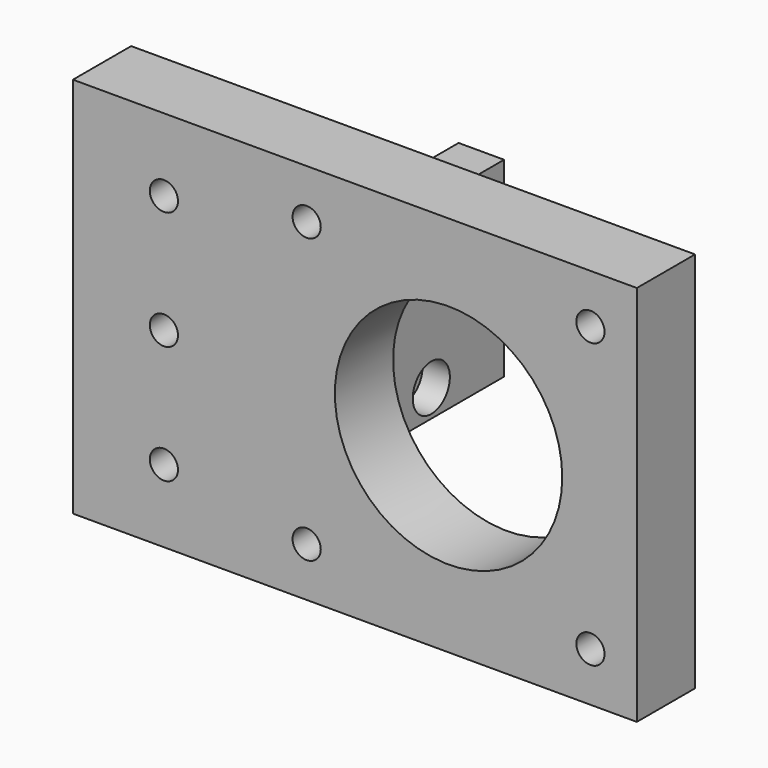
from build123d import *

# Parameters (mm, degrees)
F0_W     = 62
F0_H     = 42
F0_R     = 1.55
F0_R_2   = 12.5
F1_DEPTH = 8
F2_W     = 5
F2_H     = 21
F3_DEPTH = 20
F4_R     = 1.55
F5_DEPTH = 25
F6_R     = 2.55
F7_DEPTH = 3


with BuildPart() as f1:
    # F0 (on Front) → F1 (new body)
    with BuildSketch(Plane.XZ):
        with Locations((31, 21)):
            Rectangle(F0_W, F0_H)
        with Locations((10, 8)):
            Circle(F0_R, mode=Mode.SUBTRACT)
        with Locations((25.697473, 5.4)):
            Circle(F0_R, mode=Mode.SUBTRACT)
        with Locations((56.897473, 5.4)):
            Circle(F0_R, mode=Mode.SUBTRACT)
        with Locations((10, 21)):
            Circle(F0_R, mode=Mode.SUBTRACT)
        with Locations((10, 34)):
            Circle(F0_R, mode=Mode.SUBTRACT)
        with Locations((25.697473, 36.6)):
            Circle(F0_R, mode=Mode.SUBTRACT)
        with Locations((41.297473, 21)):
            Circle(F0_R_2, mode=Mode.SUBTRACT)
        with Locations((56.897473, 36.6)):
            Circle(F0_R, mode=Mode.SUBTRACT)
    extrude(amount=F1_DEPTH)

    # F2 (on face) → F3 (join)
    with BuildSketch(Plane(origin=(0, 0, 0), x_dir=(-1, 0, 0), z_dir=(0, 1, 0))):
        with Locations((-22.5, 20.5)):
            Rectangle(F2_W, F2_H)
    extrude(amount=F3_DEPTH)

    # F4 (on face) → F5 (cut)
    with BuildSketch(Plane.YZ.offset(25)):
        with Locations((10, 28)):
            Circle(F4_R)
        with Locations((10, 13)):
            Circle(F4_R)
    extrude(amount=-F5_DEPTH, mode=Mode.SUBTRACT)

    # F6 (on face) → F7 (cut)
    with BuildSketch(Plane.YZ.offset(25)):
        with Locations((10, 28)):
            Circle(F6_R)
        with Locations((10, 13)):
            Circle(F6_R)
    extrude(amount=-F7_DEPTH, mode=Mode.SUBTRACT)


solid = f1.part
